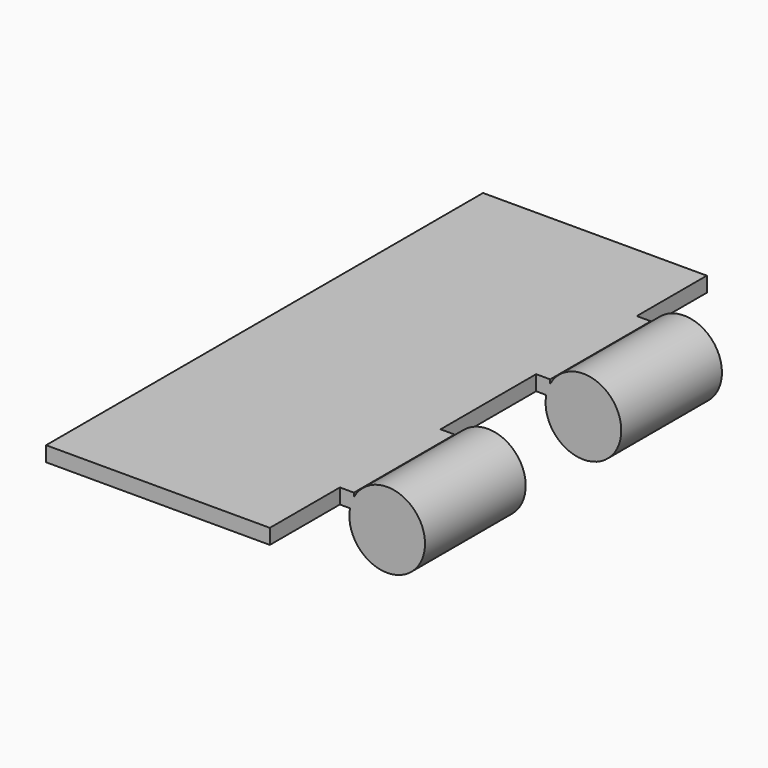
from build123d import *

# Parameters (mm, degrees)
F0_W     = 31.1658
F0_H     = 76.073
F1_DEPTH = 2.0955
F2_W     = 17.526
F2_H     = 2.0955
F3_DEPTH = 1.9558
F4_R     = 5.2705
F5_DEPTH = 17.526
F7_DEPTH = 17.526


with BuildPart() as f1:
    # F0 (on Top) → F1 (new body)
    with BuildSketch(Plane.XY):
        Rectangle(F0_W, F0_H)
    extrude(amount=F1_DEPTH)

    # F2 (on face) → F3 (join)
    with BuildSketch(Plane.YZ.offset(15.5829)):
        with Locations((-17.0815, 1.04775)):
            Rectangle(F2_W, F2_H)
        with Locations((17.0815, 1.04775)):
            Rectangle(F2_W, F2_H)
    extrude(amount=F3_DEPTH)

    # F4 (on face) → F5 (join, through all)
    with BuildSketch(Plane.XZ.offset(25.8445)):
        with Locations((22.1742, -0.9652)):
            Circle(F4_R)
    extrude(amount=-F5_DEPTH)

    # F6 (on face) → F7 (join, through all)
    with BuildSketch(Plane.XZ.offset(-8.3185)):
        with BuildLine():
            Line((17.5387, 0), (16.992833, 0))
            ThreePointArc((16.992833, 0), (27.142883, -2.723141), (17.5387, 1.542849))
            Line((17.5387, 1.542849), (17.5387, 0))
        make_face()
    extrude(amount=-F7_DEPTH)


solid = f1.part
